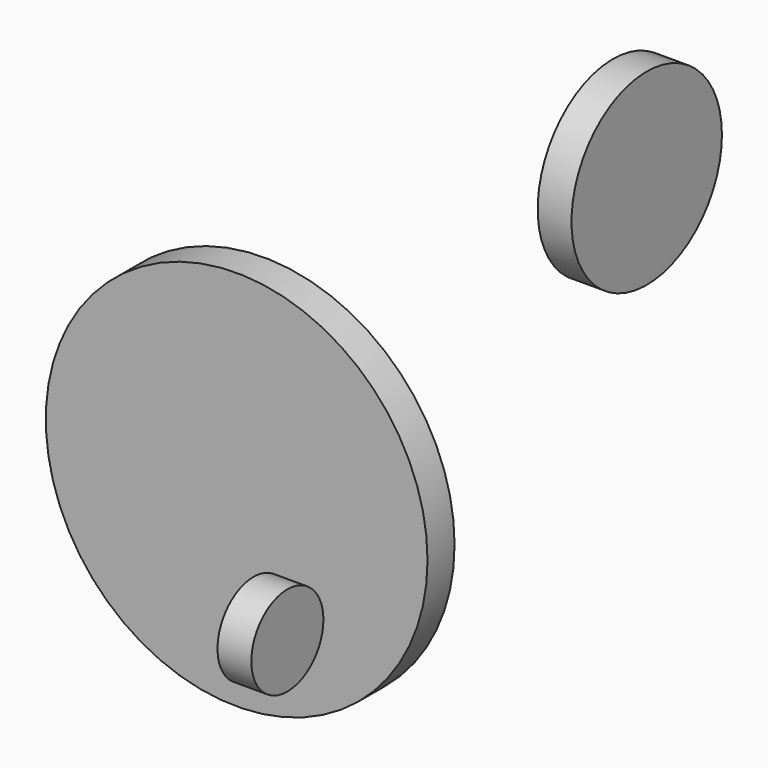
from build123d import *

# Parameters (mm, degrees)
F0_R     = 33.828381
F1_DEPTH = 25.4
F2_R     = 70.605472
F3_DEPTH = 25.4
F4_R     = 143.371726
F5_DEPTH = 25.4


with BuildPart() as f1:
    # F0 (on Right) → F1 (new body)
    with BuildSketch(Plane.YZ):
        with Locations((-125.692561, 66.523999)):
            Circle(F0_R)
    extrude(amount=F1_DEPTH)


with BuildPart() as f3:
    # F2 (on Right) → F3 (new body)
    with BuildSketch(Plane.YZ):
        with Locations((211.714819, 235.015988)):
            Circle(F2_R)
    extrude(amount=F3_DEPTH)


with BuildPart() as f5:
    # F4 (on Front) → F5 (new body)
    with BuildSketch(Plane.XZ):
        with Locations((-92.927106, 86.991832)):
            Circle(F4_R)
    extrude(amount=F5_DEPTH)


solid = Compound([f1.part, f3.part, f5.part])
